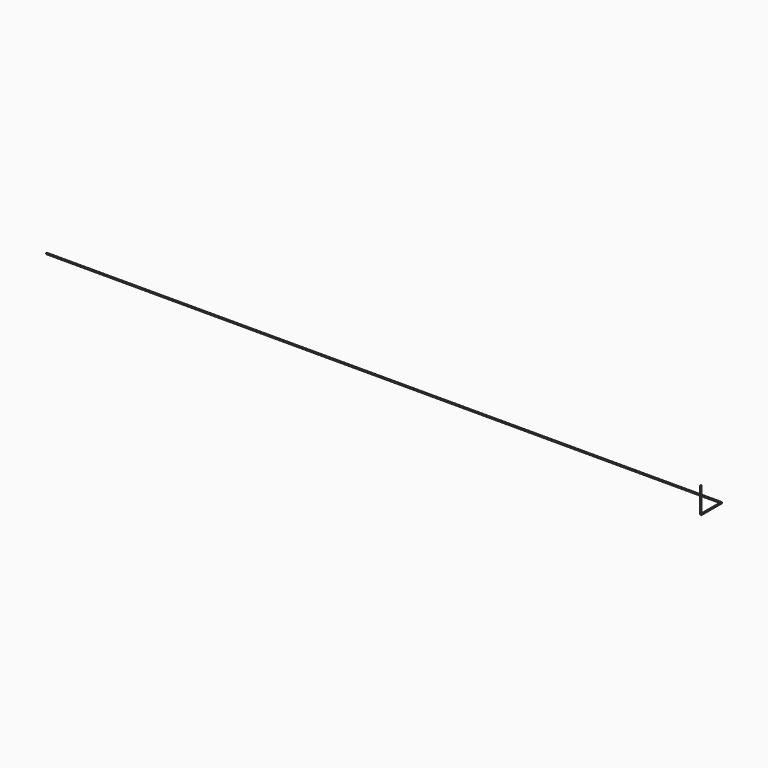
from build123d import *

# Parameters (mm, degrees)
F0_R     = 12.7
F1_DEPTH = 13462
F2_R     = 12.7
F3_DEPTH = 508
F5_R     = 12.7
F6_DEPTH = 508


with BuildPart() as f1:
    # F0 (on Right) → F1 (new body)
    with BuildSketch(Plane.YZ):
        Circle(F0_R)
    extrude(amount=-F1_DEPTH)

    # F2 (on Front) → F3 (join)
    with BuildSketch(Plane.XZ):
        with Locations((0, -1.464873)):
            Circle(F2_R)
    extrude(amount=F3_DEPTH)

    # F5 (on Top) → F6 (join)
    with BuildSketch(Plane.XY):
        with Locations((0, -508)):
            Circle(F5_R)
    extrude(amount=F6_DEPTH)


solid = f1.part
